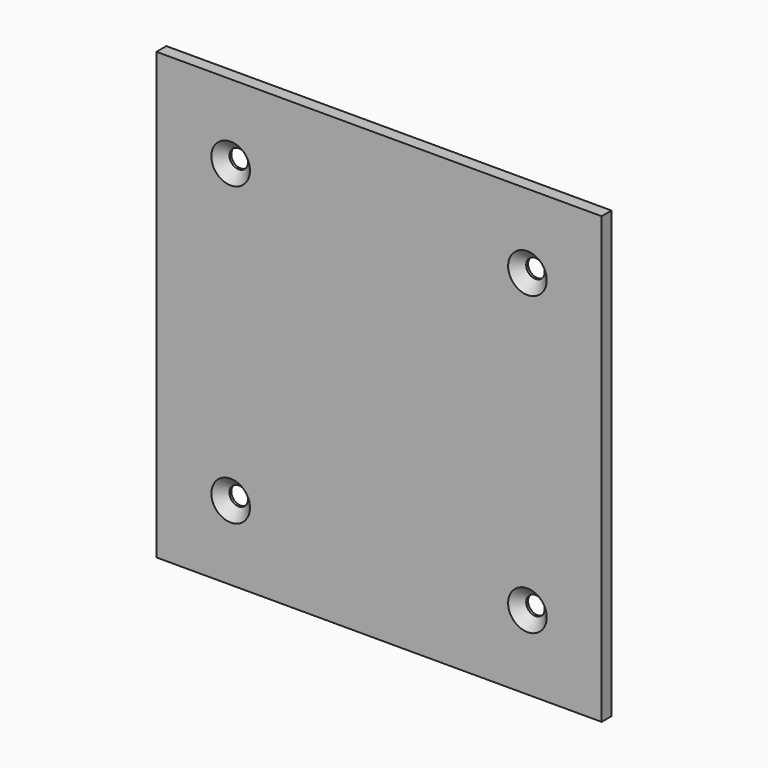
from build123d import *

# Parameters (mm, degrees)
F0_W           = 228.6
F0_H           = 228.6
F1_DEPTH       = 3.175
F3_D           = 9.525
F3_CSINK_D     = 19.8374
F3_CSINK_ANGLE = 90


with BuildPart() as f1:
    # F0 (on Front) → F1 (new body, symmetric)
    with BuildSketch(Plane.XZ):
        Rectangle(F0_W, F0_H)
    extrude(amount=F1_DEPTH, both=True)

    # F3 (through all)
    with Locations(Plane.XZ.offset(3.175)):
        with Locations((-76.2, 76.2), (76.2, 76.2), (76.2, -76.2), (-76.2, -76.2)):
            CounterSinkHole(F3_D / 2, F3_CSINK_D / 2, counter_sink_angle=F3_CSINK_ANGLE)


solid = f1.part
